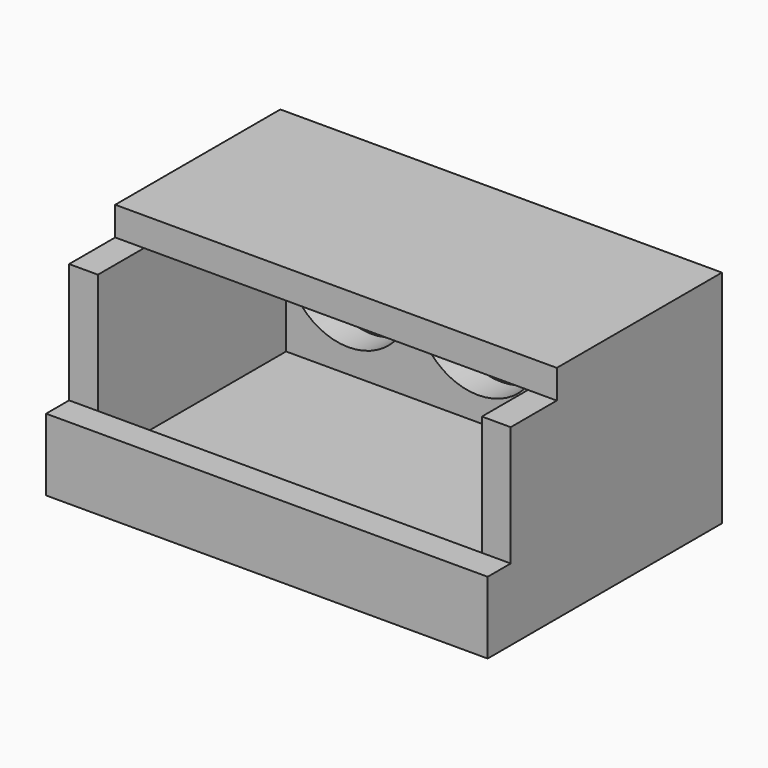
from build123d import *

# Parameters (mm, degrees)
SKETCH_W        = 18.4
SKETCH_H        = 11
PAD_DEPTH       = 8
SKETCH002_R     = 2.6
POCKET_DEPTH    = 10
SKETCH003_W     = 16
SKETCH003_H     = 9.8
POCKET001_DEPTH = 6.8
SKETCH004_W     = 10.8
SKETCH004_H     = 3
POCKET002_DEPTH = 5
SKETCH005_W     = 18.4
SKETCH005_H     = 3
PAD001_DEPTH    = 1.2
SKETCH006_W     = 18.4
SKETCH006_H     = 8.6
PAD002_DEPTH    = 1.2


with BuildPart() as part:
    # Sketch → Pad (new body)
    with BuildSketch(Plane.XY):
        Rectangle(SKETCH_W, SKETCH_H)
    extrude(amount=PAD_DEPTH)

    # Sketch002 (on Face3 of Pad) → Pocket (cut)
    with BuildSketch(Plane(origin=(0, 5.5, 0), x_dir=(-1, 0, 0), z_dir=(0, 1, 0))):
        with Locations((-5.4, 4.8)):
            Circle(SKETCH002_R)
        with Locations((0, 4.8)):
            Circle(SKETCH002_R)
        with Locations((5.4, 4.8)):
            Circle(SKETCH002_R)
    extrude(amount=-POCKET_DEPTH, mode=Mode.SUBTRACT)

    # Sketch003 (on Face5 of Pocket) → Pocket001 (cut)
    with BuildSketch(Plane.XY.offset(8)):
        with Locations((0, -0.6)):
            Rectangle(SKETCH003_W, SKETCH003_H)
    extrude(amount=-POCKET001_DEPTH, mode=Mode.SUBTRACT)

    # Sketch004 (on Face9 of Pocket001) → Pocket002 (cut)
    with BuildSketch(Plane(origin=(0, 5.5, 0), x_dir=(-1, 0, 0), z_dir=(0, 1, 0))):
        with Locations((0, 4.8)):
            Rectangle(SKETCH004_W, SKETCH004_H)
    extrude(amount=-POCKET002_DEPTH, mode=Mode.SUBTRACT)

    # Sketch005 (on Face1 of Pocket002) → Pad001 (join)
    with BuildSketch(Plane.XZ.offset(5.5)):
        with Locations((0, 1.5)):
            Rectangle(SKETCH005_W, SKETCH005_H)
    extrude(amount=PAD001_DEPTH)

    # Sketch006 (on Face4 of Pad001) → Pad002 (join)
    with BuildSketch(Plane.XY.offset(8)):
        with Locations((0, 1.2)):
            Rectangle(SKETCH006_W, SKETCH006_H)
    extrude(amount=PAD002_DEPTH)


solid = part.part
